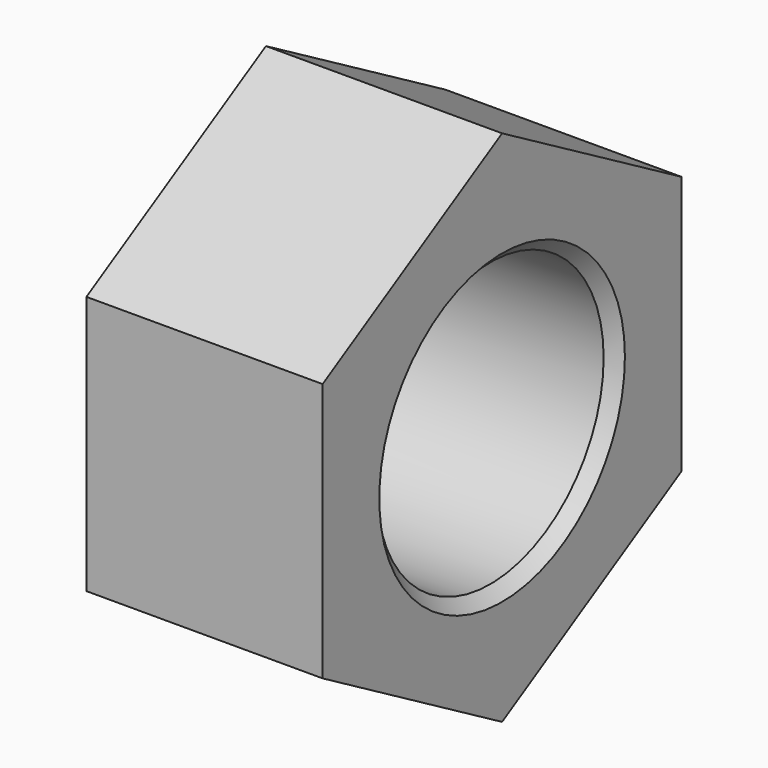
from build123d import *

# Parameters (mm, degrees)
F1_DEPTH = 10
F2_R     = 6
F3_DEPTH = 10.001
F4_SIZE  = 0.5


with BuildPart() as f1:
    # F0 (on Right) → F1 (new body)
    with BuildSketch(Plane.YZ):
        Polygon((0, -10.969655), (9.5, -5.484828), (9.5, 5.484828), (0, 10.969655), (-9.5, 5.484828), (-9.5, -5.484828), align=None)
    extrude(amount=-F1_DEPTH)

    # F2 (on face) → F3 (cut, through all)
    with BuildSketch(Plane.YZ):
        Circle(F2_R)
    extrude(amount=-F3_DEPTH, mode=Mode.SUBTRACT)

    # F4
    f4_edges = [f1.edges().sort_by_distance(p)[0] for p in [
        (0, -6, 0),
        (-5, 6, 0),
        (-10, -6, 0),
    ]]
    chamfer(f4_edges, length=F4_SIZE)


solid = f1.part
